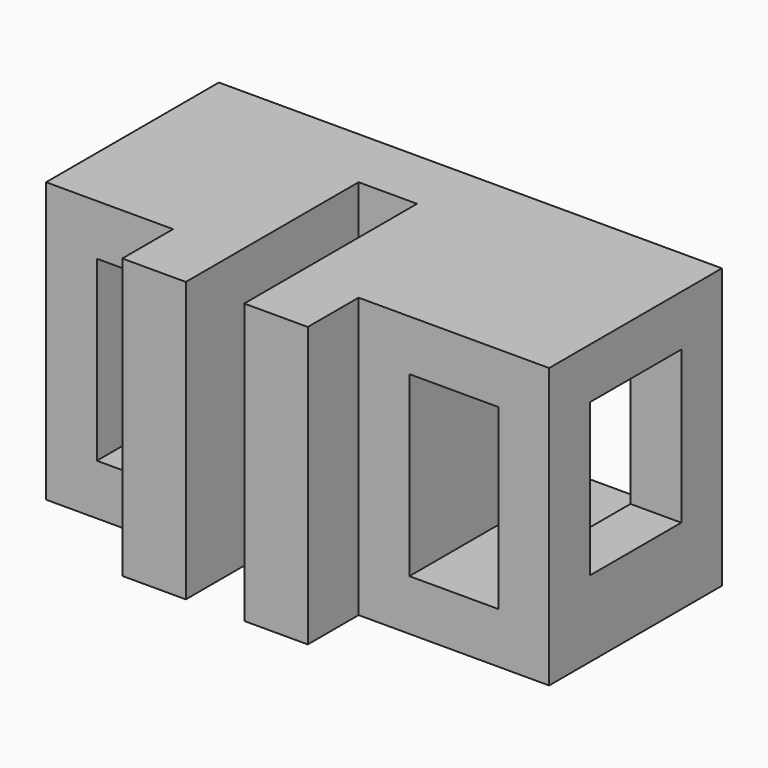
from build123d import *

# Parameters (mm, degrees)
F1_DEPTH = 11
F2_W     = 4.5
F2_H     = 6
F3_DEPTH = 5
F4_W     = 3
F4_H     = 7
F5_DEPTH = 8.501
F6_W     = 4.5
F6_H     = 6
F7_DEPTH = 5
F8_W     = 3.5
F8_H     = 7
F9_DEPTH = 8.501


with BuildPart() as f1:
    # F0 (on Top) → F1 (new body)
    with BuildSketch(Plane.XY):
        Polygon((0, -8.5), (0, 0), (-19.8, 0), (-19.8, -8.5), (-14.8, -8.5), (-14.8, -11), (-12.3, -11), (-12.3, -2.5), (-10, -2.5), (-10, -11), (-7.5, -11), (-7.5, -8.5), align=None)
    extrude(amount=F1_DEPTH)

    # F2 (on face) → F3 (cut, through all)
    with BuildSketch(Plane(origin=(-19.8, 0, 0), x_dir=(0, -1, 0), z_dir=(-1, 0, 0))):
        with Locations((4.25, 6)):
            Rectangle(F2_W, F2_H)
    extrude(amount=-F3_DEPTH, mode=Mode.SUBTRACT)

    # F4 (on face) → F5 (cut, through all)
    with BuildSketch(Plane.XZ.offset(8.5)):
        with Locations((-16.3, 5.5)):
            Rectangle(F4_W, F4_H)
    extrude(amount=-F5_DEPTH, mode=Mode.SUBTRACT)

    # F6 (on face) → F7 (cut)
    with BuildSketch(Plane.YZ):
        with Locations((-4.25, 6)):
            Rectangle(F6_W, F6_H)
    extrude(amount=-F7_DEPTH, mode=Mode.SUBTRACT)

    # F8 (on face) → F9 (cut, through all)
    with BuildSketch(Plane.XZ.offset(8.5)):
        with Locations((-3.75, 5.5)):
            Rectangle(F8_W, F8_H)
    extrude(amount=-F9_DEPTH, mode=Mode.SUBTRACT)


solid = f1.part
